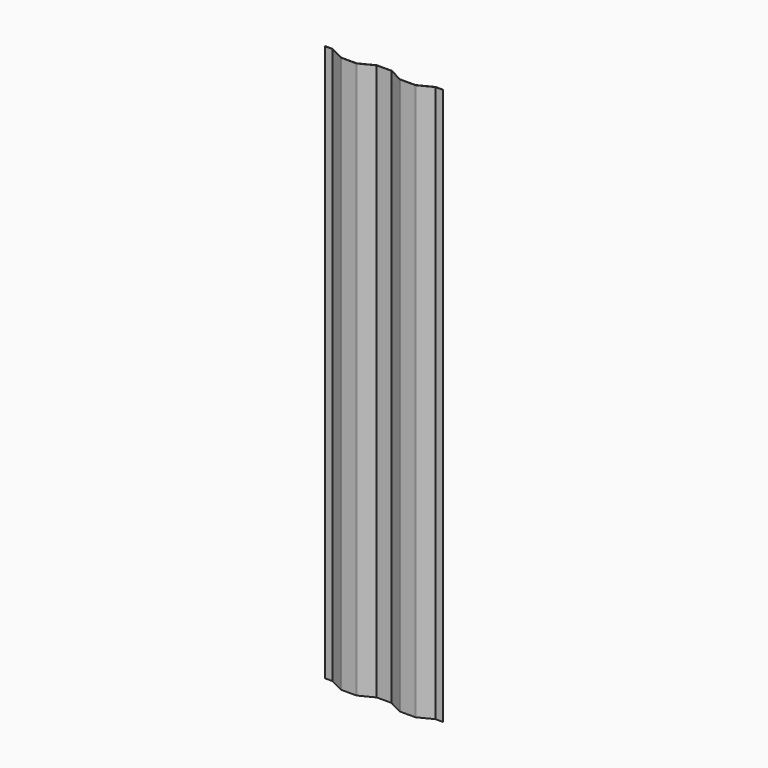
from build123d import *

# Parameters (mm, degrees)
F1_DEPTH = 2629
F2_W     = 721.211998
F2_H     = 2677.757788
F3_DEPTH = 36.001


with BuildPart() as f1:
    # F0 (on Top) → F1 (new body)
    with BuildSketch(Plane.XY):
        with BuildLine():
            ThreePointArc((103.213446, 15.932448), (104.661294, 15.401879), (106.192738, 15.221745))
            Line((106.192738, 15.221745), (175.807262, 15.221745))
            ThreePointArc((175.807262, 15.221745), (177.338706, 15.401879), (178.786554, 15.932448))
            Line((178.786554, 15.932448), (245.381676, 49.621745))
            Line((245.381676, 49.621745), (314.618324, 49.621745))
            Line((314.618324, 49.621745), (381.213446, 15.932448))
            ThreePointArc((381.213446, 15.932448), (382.661294, 15.401879), (384.192738, 15.221745))
            Line((384.192738, 15.221745), (453.807262, 15.221745))
            ThreePointArc((453.807262, 15.221745), (455.338706, 15.401879), (456.786554, 15.932448))
            Line((456.786554, 15.932448), (523.381676, 49.621745))
            Line((523.381676, 49.621745), (592.618324, 49.621745))
            Line((592.618324, 49.621745), (659.213446, 15.932448))
            ThreePointArc((659.213446, 15.932448), (660.661294, 15.401879), (662.192738, 15.221745))
            Line((662.192738, 15.221745), (731.807262, 15.221745))
            ThreePointArc((731.807262, 15.221745), (733.338706, 15.401879), (734.786554, 15.932448))
            Line((734.786554, 15.932448), (801.381676, 49.621745))
            Line((801.381676, 49.621745), (870.618324, 49.621745))
            Line((870.618324, 49.621745), (937.213446, 15.932448))
            ThreePointArc((937.213446, 15.932448), (938.661294, 15.401879), (940.192738, 15.221745))
            Line((940.192738, 15.221745), (1009.807262, 15.221745))
            ThreePointArc((1009.807262, 15.221745), (1011.338706, 15.401879), (1012.786554, 15.932448))
            Line((1012.786554, 15.932448), (1079.381676, 49.621745))
            Line((1079.381676, 49.621745), (1116, 49.621745))
            Line((1116, 49.621745), (1116, 51.221745))
            Line((1116, 51.221745), (1080.192738, 51.221745))
            ThreePointArc((1080.192738, 51.221745), (1079.032553, 51.08528), (1077.935699, 50.683334))
            Line((1077.935699, 50.683334), (1012.064301, 17.360156))
            ThreePointArc((1012.064301, 17.360156), (1010.967447, 16.95821), (1009.807262, 16.821745))
            Line((1009.807262, 16.821745), (940.192738, 16.821745))
            ThreePointArc((940.192738, 16.821745), (939.032553, 16.95821), (937.935699, 17.360156))
            Line((937.935699, 17.360156), (872.064301, 50.683334))
            ThreePointArc((872.064301, 50.683334), (870.967447, 51.08528), (869.807262, 51.221745))
            Line((869.807262, 51.221745), (802.192738, 51.221745))
            ThreePointArc((802.192738, 51.221745), (801.032553, 51.08528), (799.935699, 50.683334))
            Line((799.935699, 50.683334), (734.064301, 17.360156))
            ThreePointArc((734.064301, 17.360156), (732.967447, 16.95821), (731.807262, 16.821745))
            Line((731.807262, 16.821745), (662.192738, 16.821745))
            ThreePointArc((662.192738, 16.821745), (661.032553, 16.95821), (659.935699, 17.360156))
            Line((659.935699, 17.360156), (594.064301, 50.683334))
            ThreePointArc((594.064301, 50.683334), (592.967447, 51.08528), (591.807262, 51.221745))
            Line((591.807262, 51.221745), (524.192738, 51.221745))
            ThreePointArc((524.192738, 51.221745), (523.032553, 51.08528), (521.935699, 50.683334))
            Line((521.935699, 50.683334), (456.064301, 17.360156))
            ThreePointArc((456.064301, 17.360156), (454.967447, 16.95821), (453.807262, 16.821745))
            Line((453.807262, 16.821745), (384.192738, 16.821745))
            ThreePointArc((384.192738, 16.821745), (383.032553, 16.95821), (381.935699, 17.360156))
            Line((381.935699, 17.360156), (316.064301, 50.683334))
            ThreePointArc((316.064301, 50.683334), (314.967447, 51.08528), (313.807262, 51.221745))
            Line((313.807262, 51.221745), (246.192738, 51.221745))
            ThreePointArc((246.192738, 51.221745), (245.032553, 51.08528), (243.935699, 50.683334))
            Line((243.935699, 50.683334), (178.064301, 17.360156))
            ThreePointArc((178.064301, 17.360156), (176.967447, 16.95821), (175.807262, 16.821745))
            Line((175.807262, 16.821745), (106.192738, 16.821745))
            ThreePointArc((106.192738, 16.821745), (105.032553, 16.95821), (103.935699, 17.360156))
            Line((103.935699, 17.360156), (38.064301, 50.683334))
            ThreePointArc((38.064301, 50.683334), (36.967447, 51.08528), (35.807262, 51.221745))
            Line((35.807262, 51.221745), (0, 51.221745))
            Line((0, 51.221745), (0, 49.621745))
            Line((0, 49.621745), (36.618324, 49.621745))
            Line((36.618324, 49.621745), (103.213446, 15.932448))
        make_face()
    extrude(amount=F1_DEPTH)

    # F2 (on face) → F3 (cut, through all)
    with BuildSketch(Plane(origin=(0, 51.221745, 0), x_dir=(-1, 0, 0), z_dir=(0, 1, 0))):
        with Locations((-918.605999, 1290.121106)):
            Rectangle(F2_W, F2_H)
    extrude(amount=-F3_DEPTH, mode=Mode.SUBTRACT)


solid = f1.part
